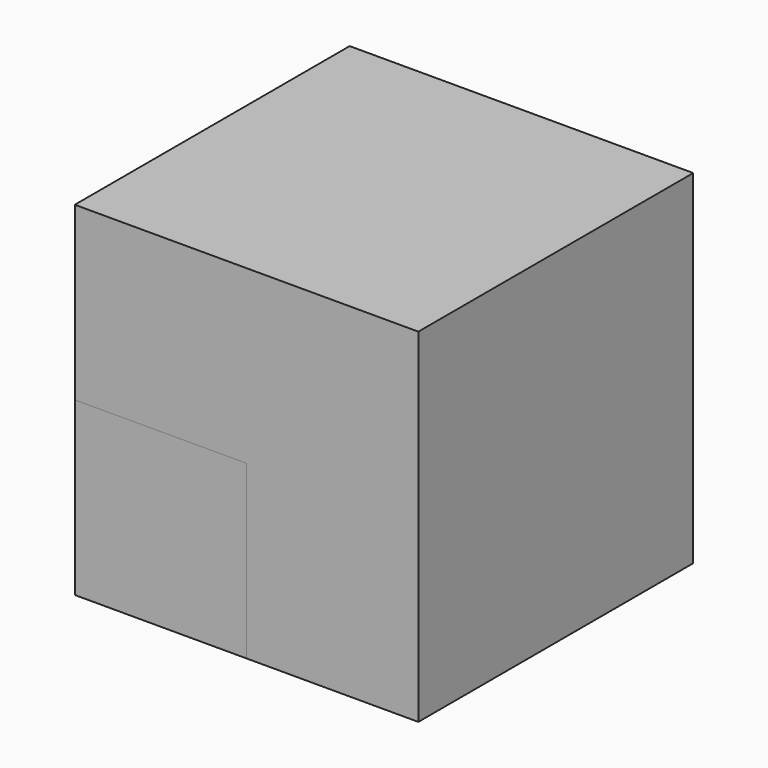
from build123d import *

# Parameters (mm, degrees)
BOX_W        = 10
BOX_H        = 10
BOX_DEPTH    = 10
BOX001_W     = 5
BOX001_H     = 5
BOX001_DEPTH = 5


with BuildPart() as cube01:
    # Box → Box (new body)
    with BuildSketch(Plane.XY):
        with Locations((5, 5)):
            Rectangle(BOX_W, BOX_H)
    extrude(amount=BOX_DEPTH)


with BuildPart() as cube02:
    # Box001 → Box001 (new body)
    with BuildSketch(Plane.XY):
        with Locations((2.5, 2.5)):
            Rectangle(BOX001_W, BOX001_H)
    extrude(amount=BOX001_DEPTH)


solid = Compound([cube01.part, cube02.part])
